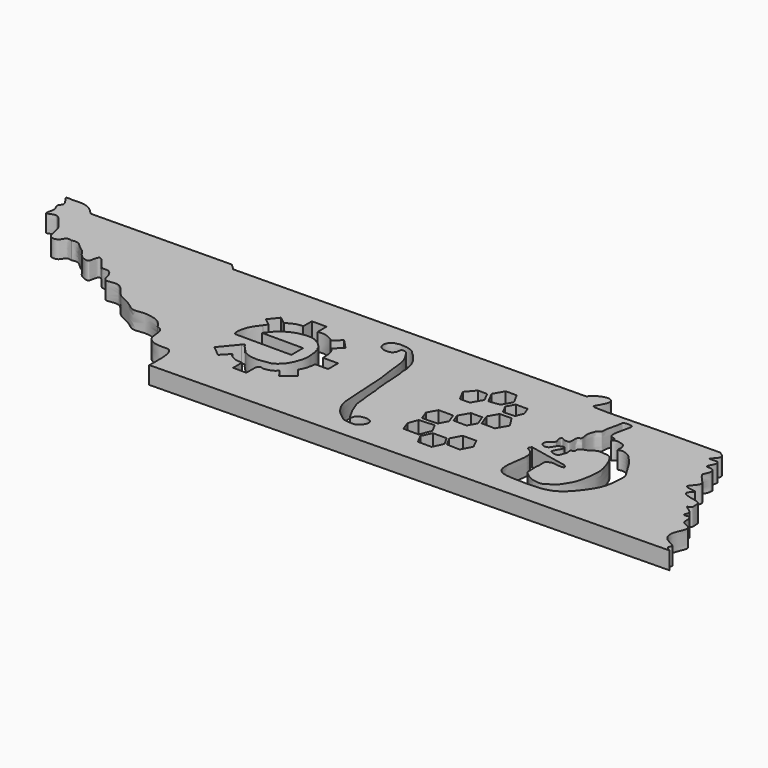
from build123d import *

# Parameters (mm, degrees)
F1_DEPTH = 1.27


with BuildPart() as f1:
    # F0 (on Top) → F1 (new body)
    with BuildSketch(Plane.XY):
        with BuildLine():
            add(Edge.make_bspline(
                [(-25.8481584992, 30.4215815668), (-25.7084113694, 30.3343932734), (-25.4501164253, 30.1732429484), (-25.4609712427, 29.8219944093), (-26.1546735379, 29.2824650932), (-25.0702507574, 29.5987383366), (-25.2084315939, 28.9602861504), (-25.580629997, 28.5047772324), (-24.5914280252, 28.6634356471), (-24.8922896793, 27.814771001), (-25.0399275222, 27.7098380254), (-24.5758632267, 27.1407048344), (-24.1702533799, 26.7843478233), (-24.4802348091, 26.3762037417), (-24.8755887076, 25.9659646658), (-24.3661984181, 25.8316927093), (-23.7617341028, 25.8554995453), (-24.62242763, 25.2165202623), (-23.3750610277, 24.9728181962), (-22.9022052414, 24.8430200053), (-22.9207833796, 24.5220536348), (-22.8403935773, 24.0624143583), (-23.4126291644, 24.0945181022), (-22.402513604, 23.6324429919), (-22.7377245472, 23.2523919276), (-22.6292705912, 23.0830072643), (-22.2861611812, 23.2444674322), (-22.0745511664, 22.8429336842), (-22.2358029147, 22.3478293041), (-21.2373197493, 22.1483230843), (-21.7016098672, 21.3450852719), (-21.8631795027, 20.6660255956), (-21.521574226, 20.0948984613), (-20.5996657417, 19.7799868183), (-21.0261278565, 19.4846297285), (-20.7374921607, 19.3132929256), (-20.5713704731, 19.2146815643)],
                knots=[0, 0, 0, 0, 0.0290042081, 0.0536085452, 0.0842407201, 0.1178162703, 0.1471737536, 0.1739715016, 0.206670695, 0.2414665834, 0.2585637042, 0.2941385121, 0.324809682, 0.354064622, 0.3825129522, 0.4104107295, 0.4368912204, 0.4680548313, 0.5099549601, 0.5405154514, 0.5636175662, 0.5908416492, 0.6114932442, 0.6481499827, 0.6742190676, 0.6892922879, 0.7130032294, 0.7391107553, 0.7673483904, 0.8038091307, 0.840482928, 0.8769338966, 0.9120410422, 0.9498804407, 0.9711541369, 1, 1, 1, 1], degree=3))
            add(Edge.make_bspline(
                [(-25.8481584992, 30.4215815668), (-26.4443608035, 30.4217735005), (-27.7624880773, 30.4221978416), (-30.0308792934, 30.3820599338), (-34.6830977601, 30.2215906295), (-35.0964790243, 30.3627124991), (-34.8216287285, 30.7416910945), (-34.4082710022, 31.6261070335), (-35.4132114534, 31.7748302855), (-36.1099946119, 31.1016293255), (-36.0721451417, 31.0593765338), (-36.0690911345, 31.0578505571)],
                knots=[0, 0, 0, 0, 0.1456765598, 0.3220722986, 0.5544176711, 0.6067830392, 0.6753052599, 0.7712229025, 0.8652935243, 0.9668270614, 0.9726636537, 0.9726636537, 0.9726636537, 0.9726636537], degree=3))
            Line((-36.0690911345, 31.0578505571), (-61.5164291616, 30.7415784155))
            add(Edge.make_bspline(
                [(-61.5164291616, 30.7415784155), (-61.6977065031, 30.9135842492), (-61.8789838445, 31.085590083), (-61.9599510487, 31.1532406886)],
                knots=[0, 0, 0, 0, 0.738104495, 0.738104495, 0.738104495, 0.738104495], degree=3))
            Line((-61.9599510487, 31.1532406886), (-67.7698149076, 31.0810328182))
            Line((-67.7698149076, 31.0810328182), (-72.1113851691, 31.0270736291))
            add(Edge.make_bspline(
                [(-72.1113851691, 31.0270736291), (-72.2643815176, 31.1880512429), (-72.5725092671, 31.5122529009), (-73.2483812247, 31.7876540617), (-73.919755053, 31.6569312207), (-74.7142515464, 31.8233977144), (-73.8005827448, 31.0005644357), (-74.3886980813, 30.6545387162), (-73.9011369532, 30.1915916407), (-74.3422142208, 29.2855720847), (-73.6358665254, 29.7410085328), (-73.196625915, 29.5263252187), (-72.7054441309, 28.8281808523), (-72.3187123612, 28.3924765384), (-72.3016893661, 27.2596601069), (-71.4651267193, 27.3174676095), (-71.3544200064, 27.8804180685), (-71.0646806689, 27.8140301149), (-70.9276915099, 27.7826417987)],
                knots=[0, 0, 0, 0, 0.0664233081, 0.1337735485, 0.2049500079, 0.2581394555, 0.3291585262, 0.3815855125, 0.441243441, 0.5061892493, 0.5625291188, 0.6183032254, 0.6920946747, 0.7564282461, 0.8355808703, 0.8963588822, 0.9509983364, 1, 1, 1, 1], degree=3))
            add(Edge.make_bspline(
                [(-70.9276915099, 27.7826417987), (-70.7566972506, 27.8133019215), (-70.4011267594, 27.8770574824), (-70.0245288121, 27.3806541387), (-69.544180698, 27.1560528241), (-69.3797922606, 26.6427971648), (-68.5691754261, 26.2747907642), (-68.5212314285, 26.6752249628), (-68.3833000486, 27.3566947005), (-67.804182718, 26.6620073164), (-67.4350945659, 26.0993965429), (-66.9779243581, 26.280900129), (-66.5431544128, 25.8359274586), (-66.5016503893, 24.9200620952), (-65.3091087503, 25.4931407903), (-64.6379913643, 24.258890666), (-64.1020342554, 24.0375579759), (-63.4302050711, 23.7129264044), (-62.9216731555, 23.2111729076), (-62.1807107914, 23.4115990317), (-61.6567057752, 23.336285291), (-60.9280751251, 23.1979263748), (-60.6396171371, 22.79795302), (-60.4938630517, 22.5958516639)],
                knots=[0, 0, 0, 0, 0.0424036418, 0.0881753797, 0.1310613314, 0.1755483754, 0.2260875999, 0.2593600409, 0.3008477842, 0.3499900157, 0.3993945195, 0.4363010744, 0.4813678767, 0.5309819617, 0.5886344445, 0.65506877, 0.701642246, 0.7532764013, 0.8029202653, 0.8532215903, 0.8980055037, 0.9484635019, 1, 1, 1, 1], degree=3))
            add(Edge.make_bspline(
                [(-60.4938630517, 22.5958516639), (-60.3149111359, 22.5082551048), (-59.9121370165, 22.3110980818), (-60.034192257, 21.3023706123), (-59.4339031558, 20.8073497184), (-58.7012148835, 20.7664018779), (-58.079963266, 20.8333966045), (-57.8830370409, 20.0819318687), (-57.8739300674, 19.5156713099), (-57.867125512, 18.613844303), (-57.8980806283, 18.5705747819), (-57.9102671276, 18.5664172568)],
                knots=[0, 0, 0, 0, 0.1059809908, 0.2385355869, 0.3551000512, 0.4756946932, 0.5778221693, 0.6891231543, 0.8063791091, 0.9349999514, 0.9639860976, 0.9639860976, 0.9639860976, 0.9639860976], degree=3))
            Line((-57.9102671276, 18.5664172568), (-20.5713704731, 19.2146815643))
        make_face()
        with BuildLine():
            Line((-55.3614458572, 25.6561897513), (-52.3695800025, 25.6561897513))
            Line((-52.3695800025, 25.6561897513), (-52.3695800025, 24.5861196709))
            Line((-52.3695800025, 24.5861196709), (-56.430157138, 24.5861196709))
            add(Edge.make_bspline(
                [(-56.430157138, 24.5861196709), (-56.4749120348, 24.6162083785), (-56.6189060363, 24.7130155151), (-56.4928843207, 25.6737750234), (-56.105775756, 26.1628386222), (-55.9057023879, 26.4156064768)],
                knots=[0, 0, 0, 0, 0.1789114986, 0.5756282425, 1, 1, 1, 1], degree=3))
            add(Edge.make_bspline(
                [(-55.7261511471, 26.6999048173), (-55.7860015607, 26.6051387038), (-55.8458519743, 26.5103725903), (-55.9057023879, 26.4156064768)],
                knots=[0, 0, 0, 0, 0.3362501962, 0.3362501962, 0.3362501962, 0.3362501962], degree=3))
            Line((-55.7261511471, 26.6999048173), (-56.2352986639, 27.103942259))
            Line((-56.2352986639, 27.103942259), (-55.6810617949, 27.8023634855))
            Line((-55.6810617949, 27.8023634855), (-55.1341146733, 27.3683299129))
            add(Edge.make_bspline(
                [(-54.0408313777, 27.7489861292), (-54.1316729174, 27.755548292), (-54.3201359424, 27.7691623837), (-54.6251663032, 27.6623784072), (-54.9004270188, 27.5492909348), (-55.0564800718, 27.4284479231), (-55.1341146733, 27.3683299129)],
                knots=[0, 0, 0, 0, 0.2412516877, 0.5005091613, 0.7515090449, 1, 1, 1, 1], degree=3))
            Line((-54.0408313777, 27.7489861292), (-54.0408313777, 28.5437409584))
            Line((-54.0408313777, 28.5437409584), (-52.9731543306, 28.5437409584))
            Line((-52.9731543306, 28.5437409584), (-52.9731543306, 27.7262208801))
            add(Edge.make_bspline(
                [(-51.7159275365, 27.3516720193), (-51.7556515278, 27.3909262733), (-51.8305307297, 27.4649200266), (-51.9421346669, 27.5292170683), (-52.1590221135, 27.6542818156), (-52.5100023397, 27.7688388148), (-52.7605786816, 27.7511120946), (-52.9044425968, 27.7342665736), (-52.9731543306, 27.7262208801)],
                knots=[0, 0, 0, 0, 0.1415167617, 0.2667572372, 0.4435768397, 0.6600008776, 0.8376109177, 1, 1, 1, 1], degree=3))
            Line((-51.7159275365, 27.3516720193), (-51.1626286014, 27.8761147524))
            Line((-51.1626286014, 27.8761147524), (-50.5003194361, 27.1773636159))
            Line((-50.5003194361, 27.1773636159), (-51.0866393838, 26.6216220152))
            add(Edge.make_bspline(
                [(-51.0866393838, 26.6216220152), (-51.0525621995, 26.586887595), (-50.9886631294, 26.5217561236), (-50.9214659685, 26.4354262113), (-50.8715095712, 26.3128539879), (-50.8141036923, 26.1662403226), (-50.7716143019, 25.9912749075), (-50.7732045233, 25.8307150148), (-50.753989301, 25.6579079849), (-50.7433337922, 25.5362544948), (-50.7517739088, 25.4652271854), (-50.7558180056, 25.4311943245)],
                knots=[0, 0, 0, 0, 0.111058066, 0.2082480494, 0.3146670104, 0.4331423441, 0.5581865442, 0.6779119492, 0.8011663531, 0.9047285062, 1, 1, 1, 1], degree=3))
            Line((-50.7558180056, 25.4311943245), (-50.3220917694, 25.4311943245))
            Line((-50.3220917694, 25.4311943245), (-49.6488440353, 25.4311943245))
            Line((-49.6488440353, 25.4311943245), (-49.6488440353, 24.5300701172))
            Line((-49.6488440353, 24.5300701172), (-50.3286836706, 24.5300701172))
            Line((-50.3286836706, 24.5300701172), (-50.6050706412, 24.5300701172))
            add(Edge.make_bspline(
                [(-50.6050706412, 24.5300701172), (-50.6050042104, 24.5139543558), (-50.6048630669, 24.4797136725), (-50.6060781021, 24.4148667691), (-50.6002723082, 24.3359483851), (-50.6261790235, 24.2085621832), (-50.6694958838, 24.1344995884), (-50.6636398657, 23.9985668944), (-50.7008164488, 23.8995090176), (-50.773764522, 23.7646599992), (-50.7918408686, 23.6671144018), (-50.8456037619, 23.5757634216), (-50.8954114364, 23.5007433095), (-50.90554424, 23.4450058042), (-50.9240160545, 23.4086240456), (-50.9334843177, 23.3899755222)],
                knots=[0, 0, 0, 0, 0.0571047146, 0.1213287041, 0.1943537171, 0.285315266, 0.3610222596, 0.4523185628, 0.5372927597, 0.6363413301, 0.7174802741, 0.8003719792, 0.8767274574, 0.9368130901, 1, 1, 1, 1], degree=3))
            Line((-50.9334843177, 23.3899755222), (-50.458828317, 22.7836904633))
            Line((-50.458828317, 22.7836904633), (-51.2889127222, 22.1338236419))
            Line((-51.2889127222, 22.1338236419), (-51.6892332765, 22.6451589467))
            add(Edge.make_bspline(
                [(-51.6892332765, 22.6451589467), (-51.7097969417, 22.6243963639), (-51.7594507016, 22.5742622904), (-51.9088892311, 22.4431746333), (-52.1095749177, 22.3558619772), (-52.3794378713, 22.2761095934), (-52.6411053328, 22.2632781151), (-52.8766776877, 22.3928548954), (-52.9502800689, 22.1949480924), (-52.9899362977, 22.0883178808)],
                knots=[0, 0, 0, 0, 0.09567404, 0.2310179522, 0.3765494103, 0.5398009611, 0.6989656873, 0.8378057149, 1, 1, 1, 1], degree=3))
            Line((-52.9899362977, 22.0883178808), (-52.9899362977, 21.2775307919))
            Line((-52.9899362977, 21.2775307919), (-53.9601169098, 21.2775307919))
            Line((-53.9601169098, 21.2775307919), (-53.9601169098, 22.100982238))
            add(Edge.make_bspline(
                [(-53.9601169098, 22.100982238), (-53.9961026269, 22.1018429074), (-54.08075676, 22.1038675779), (-54.2961017784, 22.084049534), (-54.5291942339, 22.1666877142), (-54.7160363509, 22.2575478501), (-54.9397115107, 22.3806731943), (-55.0457960368, 22.6148761326), (-55.1020204328, 22.5377104404), (-55.1248163487, 22.5064239749)],
                knots=[0, 0, 0, 0, 0.1133135035, 0.2665628798, 0.4307509349, 0.5826925198, 0.7535733449, 0.9000874763, 1, 1, 1, 1], degree=3))
            Line((-55.1248163487, 22.5064239749), (-55.6261705737, 21.9801351013))
            Line((-55.6261705737, 21.9801351013), (-56.3740077, 22.6001770752))
            Line((-56.3740077, 22.6001770752), (-55.3797932736, 23.7993063129))
            add(Edge.make_bspline(
                [(-55.3797932736, 23.7993063129), (-55.3528095809, 23.8378199289), (-55.3060312205, 23.904586321), (-55.2165981755, 23.9559867918), (-55.1228399611, 23.7823542898), (-54.9870021631, 23.6256714463), (-54.8461468893, 23.4683886485), (-54.7533441163, 23.3988345091), (-54.6399907541, 23.2281874044), (-54.5225289134, 23.1760680954), (-54.3828926382, 23.1011806196), (-54.2481865123, 23.0345396743), (-54.0558864138, 22.9771845509), (-53.8500356549, 22.9623084152), (-53.6015403941, 22.921012508), (-53.4064642268, 22.9441737991), (-53.2317059016, 22.9686402513), (-53.0471092449, 22.9850767336), (-52.848194739, 23.0385686691), (-52.6948268775, 23.0444062442), (-52.5026565988, 23.0962239615), (-52.4141973318, 23.1717254775), (-52.2643526371, 23.2437100353), (-52.1604015054, 23.3991125657), (-51.997336152, 23.5158239533), (-51.9000135073, 23.6842149901), (-51.8228075275, 23.7980535216), (-51.7532639953, 23.9249492534), (-51.6877683457, 24.0823419873), (-51.653488888, 24.1846907466), (-51.6119349717, 24.3081241921), (-51.5618012763, 24.4361295193), (-51.53061843, 24.5275956872), (-51.506567079, 24.6372463123), (-51.4923125676, 24.7198588837), (-51.4837653856, 24.7988542097), (-51.4719897606, 24.8986371931), (-51.4716399678, 24.9798626031), (-51.4665023952, 25.088398009), (-51.477578417, 25.1738708628), (-51.4865329486, 25.2328616994), (-51.4866190044, 25.3215195713), (-51.5154184048, 25.3953063708), (-51.5113061669, 25.5353825225), (-51.5123529755, 25.6575874753), (-51.582400735, 25.8119541248), (-51.5732414007, 25.9775450396), (-51.6877664232, 26.1271930549), (-51.7347975362, 26.1963039498), (-51.7450968241, 26.2415696505), (-51.7728945318, 26.3036525188), (-51.8036282155, 26.3379737397), (-51.8336020404, 26.3830263425), (-51.885091118, 26.4292998412), (-51.9441998684, 26.4950906273), (-51.977792767, 26.5461275655), (-52.0316182327, 26.5886885133), (-52.0796350332, 26.6240058651), (-52.1440217783, 26.6787763786), (-52.1976992934, 26.7057474028), (-52.2452002907, 26.7386037071), (-52.2858045246, 26.7577420328), (-52.3455763693, 26.7978962611), (-52.4020000511, 26.8233639666), (-52.4527566529, 26.8472433325), (-52.5034584824, 26.8878940619), (-52.5933135072, 26.9162738934), (-52.6586658353, 26.9434891947), (-52.7261010371, 26.9575127265), (-52.8142465599, 26.9622719988), (-52.9023876518, 26.9698904197), (-52.9713776857, 26.9765025826), (-53.0451099352, 26.9886782326), (-53.1340942418, 26.9813873459), (-53.1674575089, 26.9778753149), (-53.2506003466, 26.9636898765), (-53.2983773694, 26.9632447745), (-53.3789172308, 26.9408524875), (-53.4235681209, 26.9505604231), (-53.4977471687, 26.9252578091), (-53.5554951573, 26.9266042001), (-53.61668599, 26.9052768083), (-53.6978799621, 26.8940888587), (-53.7790324062, 26.8756726795), (-53.8369757744, 26.8463835263), (-53.899154766, 26.8342963784), (-53.9752931808, 26.8027270007), (-54.025458479, 26.7915966228), (-54.0857108152, 26.7515683046), (-54.1467996711, 26.7366643305), (-54.2056950123, 26.712838069), (-54.2634400931, 26.6818559171), (-54.3203004827, 26.6586233044), (-54.3857247019, 26.6079969039), (-54.4541148195, 26.5754986314), (-54.5077041126, 26.5191645644), (-54.5538554617, 26.4983571683), (-54.6145827135, 26.4549636754), (-54.6723710055, 26.4219646208), (-54.7051520282, 26.374526509), (-54.7461417746, 26.342156054), (-54.7966445972, 26.2885352927), (-54.8374782263, 26.2549137759), (-54.9065856369, 26.211846312), (-54.9557365028, 26.1645772129), (-55.0047369068, 26.101084938), (-55.0776451864, 26.0055693128), (-55.1814302422, 25.8875288259), (-55.2063740927, 25.8450868384), (-55.2656497622, 25.7733762361), (-55.3085824883, 25.7213499769), (-55.3433556434, 25.6784880353), (-55.3614458572, 25.6561897513)],
                knots=[0, 0, 0, 0, 0.0106796683, 0.0185140476, 0.0304200869, 0.0444090679, 0.0575886358, 0.0677260598, 0.0806020969, 0.0911529395, 0.1026187059, 0.1140474016, 0.1269838066, 0.1404352611, 0.1550846534, 0.1680477943, 0.1802351211, 0.1929043095, 0.2060539312, 0.2177395611, 0.2304833832, 0.2404923489, 0.2521119833, 0.2647012601, 0.2778074565, 0.2906018678, 0.3014103007, 0.3125788744, 0.3246093952, 0.3342624776, 0.3447941748, 0.355640138, 0.364820077, 0.3745456288, 0.3830133222, 0.3912641283, 0.4004566376, 0.4089077623, 0.4185546535, 0.4271028045, 0.4342709527, 0.4427719341, 0.4510590339, 0.4618338217, 0.4721777538, 0.483969354, 0.4958636831, 0.5083691593, 0.5166770479, 0.522883931, 0.530399121, 0.5367230138, 0.5433828194, 0.5511578534, 0.5598515013, 0.5671378201, 0.5746276946, 0.5818952498, 0.5903365517, 0.5976128366, 0.604492442, 0.6107306713, 0.6185351489, 0.6258879351, 0.6327055023, 0.6401420793, 0.649104274, 0.6569217536, 0.6645052593, 0.6732396957, 0.6819741399, 0.68961582, 0.6977526229, 0.706303606, 0.711902079, 0.7201338811, 0.7268981272, 0.7350835184, 0.7414171726, 0.7494008601, 0.7564709732, 0.7637988088, 0.772238796, 0.7807002346, 0.7880589274, 0.795459501, 0.8037810937, 0.8104800776, 0.8181954813, 0.8255702516, 0.8329288591, 0.8403734461, 0.8476341021, 0.8559816871, 0.8641439899, 0.8721257599, 0.8787141611, 0.8866592499, 0.8942522795, 0.9011097972, 0.9078446877, 0.9156851777, 0.9225347032, 0.9307817457, 0.9384320384, 0.9465415125, 0.9569822803, 0.9684454062, 0.9751066306, 0.9837836454, 0.9915636841, 1, 1, 1, 1], degree=3))
        make_face(mode=Mode.SUBTRACT)
        Polygon((-40.0808596555, 22.0906435679), (-39.0835989769, 22.0906435679), (-38.735515302, 21.4657837751), (-39.0835989769, 20.7239809497), (-40.0808596555, 20.7283539166), (-40.4147024769, 21.3628685851), align=None, mode=Mode.SUBTRACT)
        Polygon((-41.7206129476, 22.8487123786), (-40.6083444636, 22.9215343534), (-40.2761400555, 22.2900809422), (-40.6083444636, 21.4657837751), (-41.7206129476, 21.4718481921), (-41.9783562924, 22.1473486563), align=None, mode=Mode.SUBTRACT)
        Polygon((-38.5543982069, 22.9028432914), (-37.5692377369, 22.9028432914), (-37.236995859, 22.2357433922), (-37.6343111079, 21.4657837751), (-38.591584986, 21.5038898277), (-38.9528431501, 22.1658066548), align=None, mode=Mode.SUBTRACT)
        Polygon((-41.5922346096, 24.5084331655), (-40.5383783895, 24.5084331655), (-40.2761400555, 23.8211521167), (-40.6083444636, 23.1900920444), (-41.7206129476, 23.1456516524), (-41.9783562924, 23.8211521167), align=None, mode=Mode.SUBTRACT)
        with BuildLine():
            add(Edge.make_bspline(
                [(-47.5014347271, 28.9037795556), (-47.5539216457, 28.948073256), (-47.6743021383, 29.0094061839), (-47.9249541418, 28.9634700858), (-47.8714010128, 28.6321459667), (-48.1385241018, 28.3230581265), (-48.4768293675, 28.3136882591), (-48.7724208283, 28.3422709888), (-49.0351360275, 28.5728986419), (-49.0969275631, 28.7794553619), (-49.0508171273, 29.0403024924), (-48.970913482, 29.1518459624), (-48.8464647984, 29.2926065731), (-48.7542831609, 29.3812336325), (-48.5059131723, 29.3848478444), (-48.4020403252, 29.4628918604), (-48.1739880277, 29.4285516469), (-47.9715560929, 29.435284149), (-47.7229237816, 29.4004081505), (-47.5292902677, 29.3128587001), (-47.3376648783, 29.2835399001), (-47.1708743695, 29.000344546), (-46.9429304023, 28.9286952224), (-46.7816371971, 28.6203219242), (-46.5738705681, 28.4329109956), (-46.4782055136, 28.2877491182), (-46.3940147494, 28.0583477142), (-46.2763460424, 27.8638290038), (-46.2491045212, 27.619775887), (-46.1476003933, 27.2918583004), (-46.1873163353, 26.9221445584), (-46.0948425966, 26.7113512587), (-46.0895962674, 26.2765682699), (-46.0909987119, 26.0938405649), (-46.0360299497, 25.6418228182), (-46.0448463756, 25.4388756082), (-45.9986307633, 24.9778650578), (-45.9553907391, 24.6407070417), (-45.9565483814, 24.419199404), (-45.8628141132, 24.065554541), (-45.8963188151, 23.8078098072), (-45.8275744237, 23.5531229992), (-45.8446902546, 23.3901709442), (-45.7933182242, 23.090489048), (-45.7518111438, 22.7886929486), (-45.7374762528, 22.2814402189), (-45.6245580489, 21.985269155), (-45.4910629465, 21.6670003398), (-45.3804143764, 21.3436143324), (-45.167982017, 21.0431505999), (-44.9216884665, 20.4954029332), (-44.8520028394, 20.904034467), (-44.7138238474, 20.9884533124), (-44.6129296299, 21.1176084254), (-44.3585891081, 21.1301277005), (-44.188061541, 21.1846553294), (-43.9524385031, 21.1190808221), (-43.7762310337, 21.0321415662), (-43.6836228789, 20.7736722238), (-43.7981388021, 20.4826608043), (-44.0333910271, 20.3010552704), (-44.1900312314, 20.1524560457), (-44.4815741239, 20.1490816802), (-44.8330516232, 20.1934849482), (-45.0543467987, 20.2072412476), (-45.3345680539, 20.4061916371), (-45.5753170448, 20.6192971656), (-45.9025049158, 20.8621917016), (-46.015176549, 21.118063674), (-46.1942755522, 21.3567017689), (-46.3154837479, 21.656900645), (-46.4002427481, 21.9596288184), (-46.4504204363, 22.5128337727), (-46.44649778, 22.6421980146), (-46.4718058536, 23.1019950241), (-46.4816542344, 23.5818947071), (-46.5116598426, 23.6782316004), (-46.5051057591, 23.9394126634), (-46.5230847199, 24.1576893283), (-46.5563056736, 24.4222014469), (-46.5577193283, 24.6371761099), (-46.5598328927, 24.9844541782), (-46.5978286991, 25.2726688629), (-46.6081453294, 25.5323275957), (-46.6351926824, 25.7690932664), (-46.673105079, 25.9813962054), (-46.6889682241, 26.2013456596), (-46.7401482876, 26.4158122847), (-46.772420999, 26.5752780847), (-46.7870254935, 26.9676205975), (-46.8473432369, 27.4172426571), (-46.9038528262, 27.6940661552), (-46.9466988674, 28.0202636295), (-47.0907961203, 28.3015331796), (-47.1948096645, 28.4831858821), (-47.3471405956, 28.723438223), (-47.4445857407, 28.855804707), (-47.5014347271, 28.9037795556)],
                knots=[0, 0, 0, 0, 0.0091245686, 0.0179540529, 0.0287108899, 0.041058561, 0.052571047, 0.0635980337, 0.0751510141, 0.0845156738, 0.0946326998, 0.1022600099, 0.1108544551, 0.1181113245, 0.1278477171, 0.1350993849, 0.1444637043, 0.1538279863, 0.1639144527, 0.1732244315, 0.181872417, 0.1930076618, 0.2027311892, 0.2144711955, 0.2251867901, 0.2335660311, 0.2434930366, 0.2531211885, 0.2630315132, 0.2750087408, 0.2870992774, 0.2970096646, 0.309968095, 0.3192827018, 0.3325165919, 0.3421435937, 0.3557912067, 0.3677062593, 0.3772429214, 0.3893127838, 0.3998466213, 0.4099431917, 0.4181815031, 0.4290553718, 0.4406030293, 0.454901076, 0.4664360772, 0.4782120755, 0.4898489379, 0.5031408028, 0.5160050989, 0.5259001513, 0.5343015991, 0.5421450528, 0.5520818013, 0.5607840913, 0.5705683829, 0.5794097482, 0.5894433109, 0.6005331204, 0.6115363681, 0.6206775469, 0.6314094741, 0.6435315132, 0.65303715, 0.6645643636, 0.6764003989, 0.6891465824, 0.6997918503, 0.71079309, 0.722095108, 0.7339805457, 0.748741804, 0.7563008831, 0.7700704906, 0.7841124799, 0.790578722, 0.8005861514, 0.810442013, 0.8207072105, 0.830231992, 0.8421162119, 0.8531937178, 0.8634880974, 0.873362483, 0.8827617182, 0.8923584352, 0.9017182375, 0.9098449958, 0.9225049017, 0.936329883, 0.9471421645, 0.95870481, 0.9700033883, 0.9793567343, 0.9901171093, 1, 1, 1, 1], degree=3))
        make_face(mode=Mode.SUBTRACT)
        Polygon((-39.9395300578, 25.37029421), (-39.1114045437, 25.37029421), (-38.829357428, 24.6310977908), (-39.1800581136, 24.0147150891), (-40.1312828431, 24.0313880447), (-40.3601075502, 24.6310977908), align=None, mode=Mode.SUBTRACT)
        Polygon((-38.5977270584, 26.295062602), (-37.7481010314, 26.3321669827), (-37.2455891724, 25.549595226), (-37.7011812237, 24.748858099), (-38.668137839, 24.7595424116), (-38.990577017, 25.6045993986), align=None, mode=Mode.SUBTRACT)
        Polygon((-41.3605359885, 27.7826417987), (-40.6876256261, 27.7826417987), (-40.3392729782, 27.1159228687), (-40.7852032839, 26.3321669827), (-41.5158441044, 26.3292862796), (-41.9268522914, 27.1159228687), align=None, mode=Mode.SUBTRACT)
        Polygon((-38.5977270584, 27.7826417987), (-37.7481010314, 27.7826417987), (-37.5261575486, 27.2166249692), (-37.7481010314, 26.6391834994), (-38.5977270584, 26.6002582408), (-38.9197712845, 27.2166249692), align=None, mode=Mode.SUBTRACT)
        Polygon((-40.0684013534, 28.6983344522), (-39.2729606051, 28.6983344522), (-38.8609178867, 27.9408208844), (-39.2729606051, 27.2166249692), (-40.0684013534, 27.1159228687), (-40.4994006771, 27.9408208844), align=None, mode=Mode.SUBTRACT)
        with BuildLine():
            Line((-34.6072948109, 24.2655873117), (-31.792522272, 23.6876583476))
            add(Edge.make_bspline(
                [(-31.792522272, 23.6876583476), (-31.7055516322, 23.6102506686), (-31.5467596606, 23.4689188585), (-31.8192348579, 23.3844385514), (-32.2793870987, 23.470516952), (-32.5225159936, 23.491325711), (-32.8568441561, 23.3598702652), (-32.9213011438, 23.2229365657), (-32.8696946823, 22.769131478), (-32.9479228123, 22.5425649135), (-32.8880754598, 22.1939174076), (-32.9395879188, 21.7652162435), (-32.7847454738, 21.5776320336), (-32.5057641524, 21.3566365585), (-32.1075243601, 21.1321259619), (-31.9206945119, 21.1467798293), (-31.6008864639, 21.0652810799), (-31.3103209355, 21.0815423326), (-30.9153905449, 21.3786048226), (-30.5768852277, 21.5584808323), (-30.3119379813, 22.0285089281), (-30.0328883096, 22.4093570251), (-29.8455974174, 23.1918673077), (-29.7528817276, 23.9030721928), (-29.7511558663, 24.4792597449), (-29.8613465743, 24.9203861119), (-30.0446617013, 25.4617685735), (-30.2161735395, 25.8193626579), (-30.5096622041, 26.1955868333), (-30.8594410334, 26.1949714198), (-31.466214087, 26.294578867), (-31.757264731, 25.9285112986), (-32.2821435029, 25.8377174763), (-32.4740845598, 25.5609136969), (-32.3324839825, 25.3470914426), (-32.749764864, 25.3351932183), (-32.5517313017, 25.0414758066), (-32.7180728655, 24.792435038), (-32.7805884541, 24.4167089384), (-33.0683945507, 24.3723214696), (-33.25968091, 24.4503275557), (-33.467788607, 24.508795827), (-33.378429121, 24.7355172857), (-33.2200704419, 25.038552308), (-33.1114400191, 25.1445782466), (-33.1130185357, 25.4985993977), (-33.4129732655, 25.3568201369), (-33.6449240895, 25.2329472141), (-33.8281366706, 24.7116954946), (-34.3741431763, 24.7959196368), (-34.4729139509, 25.2033089186), (-34.1349792315, 25.4569468441), (-33.8842891249, 25.6528152025), (-34.1009485948, 25.9472596882), (-33.9897746016, 26.2839799601), (-33.8046683608, 26.0940581459), (-33.5894394368, 26.0720571493), (-33.3504038681, 26.0380721641), (-33.3148530864, 26.315221147), (-33.3522454305, 26.7996213667), (-32.9926384032, 26.8301535406), (-33.2121303767, 27.3938109717), (-33.0554145038, 27.8046566927), (-32.9478112009, 28.136441928), (-32.685386422, 28.1969401287), (-32.7232856286, 28.4663905248), (-32.6352991097, 28.9097391087), (-32.5336829891, 29.2007769201), (-32.4521975739, 29.7087361497), (-32.4615793653, 29.8546242199), (-32.1211511638, 29.8897093379), (-31.7155785964, 29.8609535489), (-31.7863411304, 29.4543328277), (-32.1116836303, 28.2839361109), (-31.8315847737, 27.9959005356), (-31.4800605454, 28.0687320039), (-31.6695239714, 27.5882858706), (-31.4961669333, 27.8379728063), (-31.2414915849, 27.8790069635), (-30.9891763495, 27.7957690812), (-30.7519988717, 27.7630956306), (-30.6169607232, 27.4858439415), (-30.5871208338, 27.2754999431), (-30.6446611395, 26.9622360816), (-30.3589797239, 27.1714471201), (-29.7059597616, 26.9319411713), (-29.4475709804, 26.589747879), (-29.121570381, 26.244797385), (-28.9080580858, 25.9042007105), (-28.6979033253, 25.5255620008), (-28.4283849801, 25.1377262868), (-28.2038247308, 24.7398566918), (-28.2466340648, 24.2936776324), (-28.2858104835, 23.4626797371), (-28.5279604102, 22.6672060252), (-29.349911305, 21.5158381575), (-30.4461740779, 20.5234764217), (-32.6632756865, 20.5744214651), (-34.505401237, 20.6429091001), (-34.2230437427, 22.425440227), (-34.0316532011, 23.7454436597), (-34.83179452, 23.9865144709), (-34.6716122754, 24.1856350588), (-34.6072948109, 24.2655873117)],
                knots=[0, 0, 0, 0, 0.008129966, 0.0148437834, 0.0258366218, 0.0340107778, 0.0429979969, 0.048936837, 0.059381151, 0.0672622891, 0.0765998348, 0.0868319208, 0.0942390603, 0.103829297, 0.1143659186, 0.1212081099, 0.1300445792, 0.1385548967, 0.1494577868, 0.1593605988, 0.1706458132, 0.1816174199, 0.1956828548, 0.2093334387, 0.2211507391, 0.2318653855, 0.2437130773, 0.2539338153, 0.2642769646, 0.273552469, 0.2854502433, 0.295866401, 0.3072378773, 0.3156537994, 0.3219178578, 0.3298907077, 0.3374341952, 0.3460441063, 0.3553971075, 0.3631117045, 0.3705359709, 0.3769956101, 0.384044965, 0.393378271, 0.3998197338, 0.4076416799, 0.4152506357, 0.4236700326, 0.4346036772, 0.4448681447, 0.4538275191, 0.463866778, 0.471967992, 0.4809273664, 0.4887390497, 0.4954592059, 0.5031337999, 0.5100364962, 0.517760771, 0.5282923893, 0.5356928854, 0.5467450119, 0.5575657889, 0.5665603043, 0.5737542242, 0.5813486687, 0.591918451, 0.6012618602, 0.6124432267, 0.6177001869, 0.6265081889, 0.6357395497, 0.6448697435, 0.6623075415, 0.6711788474, 0.6787309797, 0.6871564128, 0.6931097684, 0.7013126178, 0.709468905, 0.7169448037, 0.7252496108, 0.7330716785, 0.7403067501, 0.7476534441, 0.7605380187, 0.7711293191, 0.7818652138, 0.7919154945, 0.8023010308, 0.8132743861, 0.8236747158, 0.8341191321, 0.848358484, 0.8628730531, 0.8814390007, 0.9002720532, 0.9239693646, 0.9431805079, 0.9625446671, 0.9803228918, 0.9920991137, 1, 1, 1, 1], degree=3))
        make_face(mode=Mode.SUBTRACT)
        with BuildLine():
            add(Edge.make_bspline(
                [(-36.0690911345, 31.0578505571), (-36.0614241155, 31.0540196257), (-36.0474764839, 31.0550470797), (-36.0306147301, 31.058328761)],
                knots=[0.9726636537, 0.9726636537, 0.9726636537, 0.9726636537, 0.9873162921, 0.9873162921, 0.9873162921, 0.9873162921], degree=3))
            Line((-36.0690911345, 31.0578505571), (-36.0306147301, 31.058328761))
        make_face(mode=Mode.SUBTRACT)
        with BuildLine():
            Line((-36.0306147301, 31.058328761), (-36.0690911345, 31.0578505571))
            add(Edge.make_bspline(
                [(-36.0690911345, 31.0578505571), (-36.0614241155, 31.0540196257), (-36.0474764839, 31.0550470797), (-36.0306147301, 31.058328761)],
                knots=[0.9726636537, 0.9726636537, 0.9726636537, 0.9726636537, 0.9873162921, 0.9873162921, 0.9873162921, 0.9873162921], degree=3))
        make_face()
    extrude(amount=F1_DEPTH)


solid = f1.part
